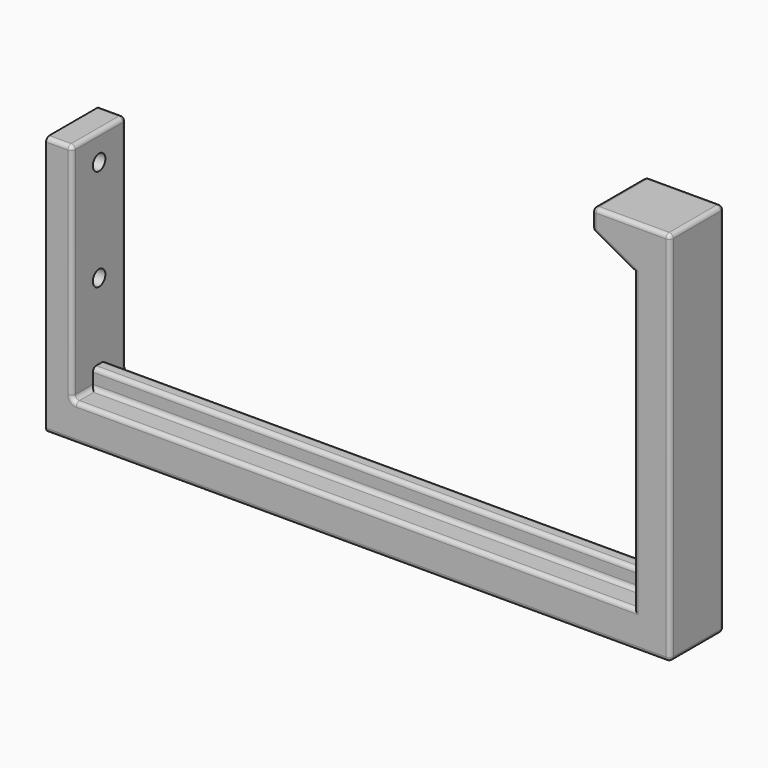
from build123d import *

# Parameters (mm, degrees)
F1_DEPTH = 6.5
F2_R     = 1.5
F3_DEPTH = 25
F5_DEPTH = 1.5
F6_R     = 0.8


with BuildPart() as f1:
    # F0 (on Front) → F1 (new body, symmetric)
    with BuildSketch(Plane.XZ):
        Polygon((-72.959999821, 50), (-72.959999821, 0), (47.040000179, 0), (47.040000179, 72.3599994255), (32.040000179, 72.3599994255), (32.040000179, 68.3599994255), (40.040000179, 64), (40.040000179, 7), (-67.959999821, 7), (-67.959999821, 50), align=None)
    extrude(amount=F1_DEPTH, both=True)

    # F2 (on face) → F3 (cut)
    with BuildSketch(Plane(origin=(-72.959999821, 0, 0), x_dir=(0, -1, 0), z_dir=(-1, 0, 0))):
        with Locations((0, 25.1972917467)):
            Circle(F2_R)
        with Locations((0, 44.7687469423)):
            Circle(F2_R)
    extrude(amount=-F3_DEPTH, mode=Mode.SUBTRACT)

    # F4 (on Front) → F5 (join, symmetric)
    with BuildSketch(Plane.XZ):
        Polygon((-71.5028345585, 10.6206643313), (-71.5028345585, 7.5510139577), (-71.5028345585, 5.6206643313), (41.4378745708, 5.6206643313), (41.4378745708, 70.8550155432), (36.4378745708, 70.8550155432), (36.4378745708, 10.6206643313), align=None)
    extrude(amount=F5_DEPTH, both=True)

    # F6
    f6_edges = [f1.edges().sort_by_distance(p)[0] for p in [
        (-67.96, -6.5, 28.5),
        (-67.96, 0, 50),
        (-70.46, 6.5, 50),
        (-70.46, -6.5, 50),
        (-67.96, 6.5, 28.5),
        (-13.96, 6.5, 7),
        (-15.761063, 1.5, 10.620664),
        (-15.761063, -1.5, 10.620664),
        (-13.96, -6.5, 7),
        (40.04, -6.5, 35.5),
        (36.437875, -1.5, 38.291911),
        (36.437875, 1.5, 38.291911),
        (40.04, 6.5, 35.5),
        (47.04, 6.5, 36.18),
        (-12.96, 6.5, 0),
        (-12.96, -6.5, 0),
        (47.04, -6.5, 36.18),
        (47.04, 0, 72.359999),
        (32.04, 0, 72.359999),
        (39.54, 6.5, 72.359999),
        (39.54, -6.5, 72.359999),
        (32.04, 0, 68.359999),
        (36.04, -6.5, 66.18),
        (36.04, 6.5, 66.18),
        (40.04, 1.5, 35.5),
        (40.04, -1.5, 35.5),
        (32.04, -6.5, 70.359999),
        (32.04, 6.5, 70.359999),
        (-13.96, -1.5, 7),
        (-13.96, 1.5, 7),
        (47.04, 0, 0),
        (-67.96, -4, 7),
        (-67.96, 4, 7),
    ]]
    fillet(f6_edges, radius=F6_R)


solid = f1.part
